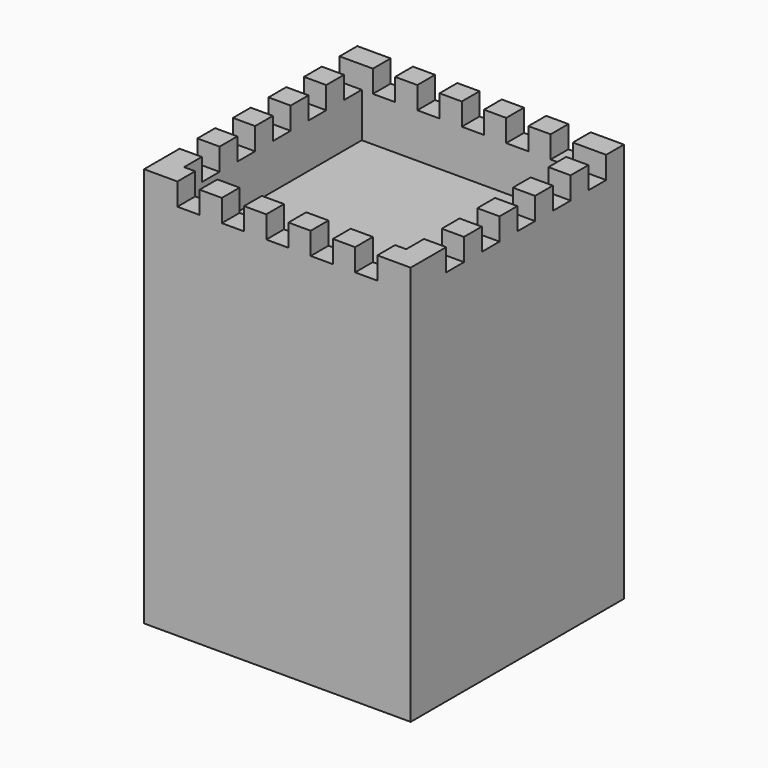
from build123d import *

# Parameters (mm, degrees)
BOX003_W                 = 14
BOX003_H                 = 1
BOX003_DEPTH             = 1
ARRAY001_Y_COUNT         = 5
ARRAY001_Y_PITCH         = 2
ARRAY001_PLACEMENT_ANGLE = 90
BOX002_W                 = 14
BOX002_H                 = 1
BOX002_DEPTH             = 1
ARRAY_Y_COUNT            = 5
ARRAY_Y_PITCH            = 2
BOX001_W                 = 10
BOX001_H                 = 10
BOX001_DEPTH             = 8
BOX_W                    = 12
BOX_H                    = 12
BOX_DEPTH                = 18


with BuildPart() as array001:
    # Box003 → Box003 (new body)
    with BuildSketch(Plane.XY):
        with Locations((7, 0.5)):
            Rectangle(BOX003_W, BOX003_H)
    extrude(amount=BOX003_DEPTH)

    # Array001 Y: Array001 ×5


with BuildPart() as array001_1:
    add(array001.part)
    with Locations(*[(0, i * ARRAY001_Y_PITCH, 0) for i in range(1, ARRAY001_Y_COUNT)]):
        add(array001.part)


with BuildPart() as array001_2:
    # Array001 placement: moved
    add(array001_1.part.moved(Location((10.5, -1.5, 17))).rotate(Axis((10.5, -1.5, 17), (0, 0, 1)), ARRAY001_PLACEMENT_ANGLE))


with BuildPart() as array:
    # Box002 → Box002 (new body)
    with BuildSketch(Plane.XY):
        with Locations((7, 0.5)):
            Rectangle(BOX002_W, BOX002_H)
    extrude(amount=BOX002_DEPTH)

    # Array Y: Array ×5


with BuildPart() as array_1:
    add(array.part)
    with Locations(*[(0, i * ARRAY_Y_PITCH, 0) for i in range(1, ARRAY_Y_COUNT)]):
        add(array.part)


with BuildPart() as array_2:
    # Array placement: moved
    add(array_1.part.moved(Location((-1, 2, 17))))


with BuildPart() as cub001:
    # Box001 → Box001 (new body)
    with BuildSketch(Plane(origin=(1, 1, 15), x_dir=(1, 0, 0), z_dir=(0, 0, 1))):
        with Locations((5, 5)):
            Rectangle(BOX001_W, BOX001_H)
    extrude(amount=BOX001_DEPTH)


with BuildPart() as cut002:
    # Box → Box (new body)
    with BuildSketch(Plane.XY):
        with Locations((6, 6)):
            Rectangle(BOX_W, BOX_H)
    extrude(amount=BOX_DEPTH)

    # Cut: cut Cub001
    add(cub001.part, mode=Mode.SUBTRACT)

    # Cut001: cut Array
    add(array_2.part, mode=Mode.SUBTRACT)

    # Cut002: cut Array001
    add(array001_2.part, mode=Mode.SUBTRACT)


solid = cut002.part
